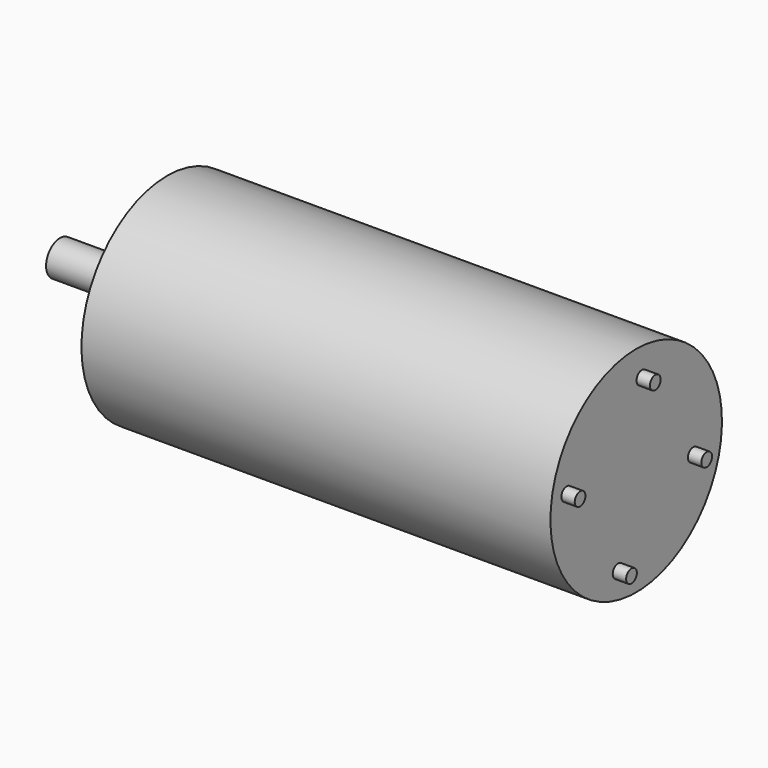
from build123d import *

# Parameters (mm, degrees)
F0_W     = 40
F0_H     = 3
F2_R     = 2.5
F3_DEPTH = 5


with BuildPart() as f1:
    # F0 (on Front) → F1 (revolve)
    with BuildSketch(Plane.XZ):
        with Locations((-34.818123, 5)):
            Rectangle(F0_W, F0_H)
        Polygon((-14.818123, 3.5), (-14.818123, 0), (160.181877, 0), (160.181877, 40), (-14.818123, 40), (-14.818123, 6.5), align=None)
    revolve(axis=Axis((18.749876, 0, 0), (1, 0, 0)))

    # F2 (on face) → F3 (join)
    with BuildSketch(Plane.YZ.offset(160.181877)):
        with Locations((2.648871, 29.522968)):
            Circle(F2_R)
        with Locations((-8.448871, -29.522968)):
            Circle(F2_R)
        with Locations((26.622968, -5.548871)):
            Circle(F2_R)
        with Locations((-32.422968, 5.548871)):
            Circle(F2_R)
    extrude(amount=F3_DEPTH)


solid = f1.part
